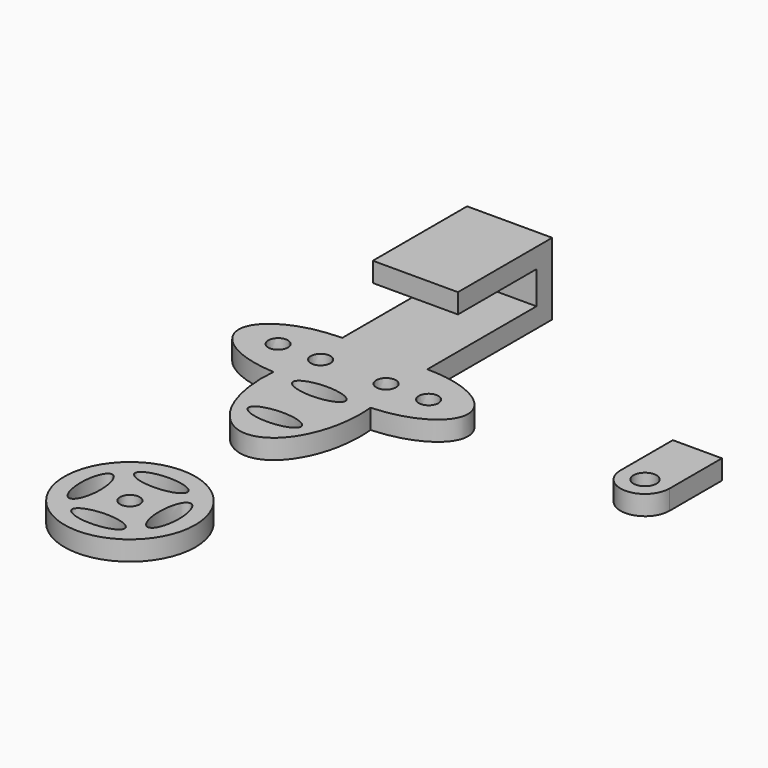
from build123d import *

# Parameters (mm, degrees)
F0_W     = 13
F0_H     = 15
F0_H_2   = 3
F1_DEPTH = 3
F2_DEPTH = 11
F3_START = 8
F3_DEPTH = 3
F0_R     = 10
F0_R_2   = 1.5
F4_DEPTH = 3
F0_R_3   = 1.75
F5_DEPTH = 3


with BuildPart() as f1:
    # F0 (on Top) → F1 (new body)
    with BuildSketch(Plane.XY):
        with BuildLine():
            add(Edge.make_bspline(
                [(6.5, 12.5), (2.9023563725, 12.5), (0, 11.3404289134)],
                knots=[1.5707963268, 1.5707963268, 1.5707963268, 2.2029815755, 2.2029815755, 2.2029815755], degree=2, weights=[1, 0.9504572984, 1]))
            add(Edge.make_bspline(
                [(0, 11.3404289134), (-2.9023563725, 12.5), (-6.5, 12.5)],
                knots=[0.9386110781, 0.9386110781, 0.9386110781, 1.5707963268, 1.5707963268, 1.5707963268], degree=2, weights=[1, 0.9504572984, 1]))
            add(Edge.make_bspline(
                [(-6.5, 12.5), (-17.0577988838, 12.5), (-17.4907472501, 6.7460446753), (-17.9236956164, 0.9920893505), (-7.401404946, 0.5201793274)],
                knots=[1.5707963268, 1.5707963268, 1.5707963268, 3.1005737059, 3.1005737059, 4.630351085, 4.630351085, 4.630351085], degree=2, weights=[1, 0.7214594396, 1, 0.7214594396, 1]))
            add(Edge.make_bspline(
                [(-7.401404946, 0.5201793274), (-8.8281626867, -14), (0, -14), (8.8281626867, -14), (7.401404946, 0.5201793274)],
                knots=[4.5500626947, 4.5500626947, 4.5500626947, 6.2831853072, 6.2831853072, 8.0163079197, 8.0163079197, 8.0163079197], degree=2, weights=[1, 0.6474510228, 1, 0.6474510228, 1]))
            add(Edge.make_bspline(
                [(7.401404946, 0.5201793274), (17.9236956164, 0.9920893505), (17.4907472501, 6.7460446753), (17.0577988838, 12.5), (6.5, 12.5)],
                knots=[4.7944268757, 4.7944268757, 4.7944268757, 6.3242042549, 6.3242042549, 7.853981634, 7.853981634, 7.853981634], degree=2, weights=[1, 0.7214594396, 1, 0.7214594396, 1]))
        make_face()
        with BuildLine():
            add(Edge.make_bspline(
                [(-4, -8.5), (-4, -11.0980762114), (2, -9.7990381057), (8, -8.5), (2, -7.2009618943), (-4, -5.9019237886), (-4, -8.5)],
                knots=[0, 0, 0, 2.0943951024, 2.0943951024, 4.1887902048, 4.1887902048, 6.2831853072, 6.2831853072, 6.2831853072], degree=2, weights=[1, 0.5, 1, 0.5, 1, 0.5, 1]))
        make_face(mode=Mode.SUBTRACT)
        with BuildLine():
            add(Edge.make_bspline(
                [(-11.5, 8), (-14.0980762114, 8), (-12.7990381057, 5.75), (-11.5, 3.5), (-10.2009618943, 5.75), (-8.9019237886, 8), (-11.5, 8)],
                knots=[0, 0, 0, 2.0943951024, 2.0943951024, 4.1887902048, 4.1887902048, 6.2831853072, 6.2831853072, 6.2831853072], degree=2, weights=[1, 0.5, 1, 0.5, 1, 0.5, 1]))
        make_face(mode=Mode.SUBTRACT)
        with BuildLine():
            add(Edge.make_bspline(
                [(-5, 8), (-7.5980762114, 8), (-6.2990381057, 5.75), (-5, 3.5), (-3.7009618943, 5.75), (-2.4019237886, 8), (-5, 8)],
                knots=[0, 0, 0, 2.0943951024, 2.0943951024, 4.1887902048, 4.1887902048, 6.2831853072, 6.2831853072, 6.2831853072], degree=2, weights=[1, 0.5, 1, 0.5, 1, 0.5, 1]))
        make_face(mode=Mode.SUBTRACT)
        with BuildLine():
            add(Edge.make_bspline(
                [(-4, 0), (-4, -2.5980762114), (2, -1.2990381057), (8, 0), (2, 1.2990381057), (-4, 2.5980762114), (-4, 0)],
                knots=[0, 0, 0, 2.0943951024, 2.0943951024, 4.1887902048, 4.1887902048, 6.2831853072, 6.2831853072, 6.2831853072], degree=2, weights=[1, 0.5, 1, 0.5, 1, 0.5, 1]))
        make_face(mode=Mode.SUBTRACT)
        with BuildLine():
            add(Edge.make_bspline(
                [(5, 8), (2.4019237886, 8), (3.7009618943, 5.75), (5, 3.5), (6.2990381057, 5.75), (7.5980762114, 8), (5, 8)],
                knots=[0, 0, 0, 2.0943951024, 2.0943951024, 4.1887902048, 4.1887902048, 6.2831853072, 6.2831853072, 6.2831853072], degree=2, weights=[1, 0.5, 1, 0.5, 1, 0.5, 1]))
        make_face(mode=Mode.SUBTRACT)
        with BuildLine():
            add(Edge.make_bspline(
                [(11.5, 8), (8.9019237886, 8), (10.2009618943, 5.75), (11.5, 3.5), (12.7990381057, 5.75), (14.0980762114, 8), (11.5, 8)],
                knots=[0, 0, 0, 2.0943951024, 2.0943951024, 4.1887902048, 4.1887902048, 6.2831853072, 6.2831853072, 6.2831853072], degree=2, weights=[1, 0.5, 1, 0.5, 1, 0.5, 1]))
        make_face(mode=Mode.SUBTRACT)
        with BuildLine():
            add(Edge.make_bspline(
                [(0, 11.3404289134), (-2.9023563725, 12.5), (-6.5, 12.5)],
                knots=[0.9386110781, 0.9386110781, 0.9386110781, 1.5707963268, 1.5707963268, 1.5707963268], degree=2, weights=[1, 0.9504572984, 1]))
            add(Edge.make_bspline(
                [(6.5, 12.5), (2.9023563725, 12.5), (0, 11.3404289134)],
                knots=[1.5707963268, 1.5707963268, 1.5707963268, 2.2029815755, 2.2029815755, 2.2029815755], degree=2, weights=[1, 0.9504572984, 1]))
            Line((6.5, 12.5), (6.5, 18.3404289134))
            Line((6.5, 18.3404289134), (-6.5, 18.3404289134))
            Line((-6.5, 18.3404289134), (-6.5, 12.5))
        make_face()
        with Locations((0, 25.8404289134)):
            Rectangle(F0_W, F0_H)
        with Locations((0, 34.8404289134)):
            Rectangle(F0_W, F0_H_2)
    extrude(amount=F1_DEPTH)

    # F0 (on Top) → F2 (join)
    with BuildSketch(Plane.XY):
        with Locations((0, 34.8404289134)):
            Rectangle(F0_W, F0_H_2)
    extrude(amount=F2_DEPTH)

    # F0 (on Top) → F3 (join)
    with BuildSketch(Plane.XY.offset(F3_START)):
        with Locations((0, 34.8404289134)):
            Rectangle(F0_W, F0_H_2)
        with Locations((0, 25.8404289134)):
            Rectangle(F0_W, F0_H)
    extrude(amount=F3_DEPTH)


with BuildPart() as f4:
    # F0 (on Top) → F4 (new body)
    with BuildSketch(Plane.XY):
        with Locations((0, -36.1642315984)):
            Circle(F0_R)
        with BuildLine():
            add(Edge.make_bspline(
                [(-6, -32.1642315984), (-8.5980762114, -32.1642315984), (-7.2990381057, -38.1642315984), (-6, -44.1642315984), (-4.7009618943, -38.1642315984), (-3.4019237886, -32.1642315984), (-6, -32.1642315984)],
                knots=[0, 0, 0, 2.0943951024, 2.0943951024, 4.1887902048, 4.1887902048, 6.2831853072, 6.2831853072, 6.2831853072], degree=2, weights=[1, 0.5, 1, 0.5, 1, 0.5, 1]))
        make_face(mode=Mode.SUBTRACT)
        with BuildLine():
            add(Edge.make_bspline(
                [(-4, -42.1642315984), (-4, -44.7623078097), (2, -43.4632697041), (8, -42.1642315984), (2, -40.8651934927), (-4, -39.566155387), (-4, -42.1642315984)],
                knots=[0, 0, 0, 2.0943951024, 2.0943951024, 4.1887902048, 4.1887902048, 6.2831853072, 6.2831853072, 6.2831853072], degree=2, weights=[1, 0.5, 1, 0.5, 1, 0.5, 1]))
        make_face(mode=Mode.SUBTRACT)
        with Locations((0, -36.1642315984)):
            Circle(F0_R_2, mode=Mode.SUBTRACT)
        with BuildLine():
            add(Edge.make_bspline(
                [(6, -40.1642315984), (8.5980762114, -40.1642315984), (7.2990381057, -34.1642315984), (6, -28.1642315984), (4.7009618943, -34.1642315984), (3.4019237886, -40.1642315984), (6, -40.1642315984)],
                knots=[0, 0, 0, 2.0943951024, 2.0943951024, 4.1887902048, 4.1887902048, 6.2831853072, 6.2831853072, 6.2831853072], degree=2, weights=[1, 0.5, 1, 0.5, 1, 0.5, 1]))
        make_face(mode=Mode.SUBTRACT)
        with BuildLine():
            add(Edge.make_bspline(
                [(4, -30.1642315984), (4, -27.566155387), (-2, -28.8651934927), (-8, -30.1642315984), (-2, -31.4632697041), (4, -32.7623078097), (4, -30.1642315984)],
                knots=[0, 0, 0, 2.0943951024, 2.0943951024, 4.1887902048, 4.1887902048, 6.2831853072, 6.2831853072, 6.2831853072], degree=2, weights=[1, 0.5, 1, 0.5, 1, 0.5, 1]))
        make_face(mode=Mode.SUBTRACT)
    extrude(amount=F4_DEPTH)


with BuildPart() as f5:
    # F0 (on Top) → F5 (new body)
    with BuildSketch(Plane.XY):
        with BuildLine():
            ThreePointArc((40.7972039282, 6.5), (44.5472039282, 10.25), (48.2972039282, 6.5))
            Line((48.2972039282, 6.5), (48.2972039282, 16.5))
            Line((48.2972039282, 16.5), (40.7972039282, 16.5))
            Line((40.7972039282, 16.5), (40.7972039282, 6.5))
        make_face()
        with BuildLine():
            ThreePointArc((40.7972039282, 6.5), (44.5472039282, 2.75), (48.2972039282, 6.5))
            ThreePointArc((48.2972039282, 6.5), (44.5472039282, 10.25), (40.7972039282, 6.5))
        make_face()
        with Locations((44.5472039282, 6.5)):
            Circle(F0_R_3, mode=Mode.SUBTRACT)
    extrude(amount=F5_DEPTH)


solid = Compound([f1.part, f4.part, f5.part])
